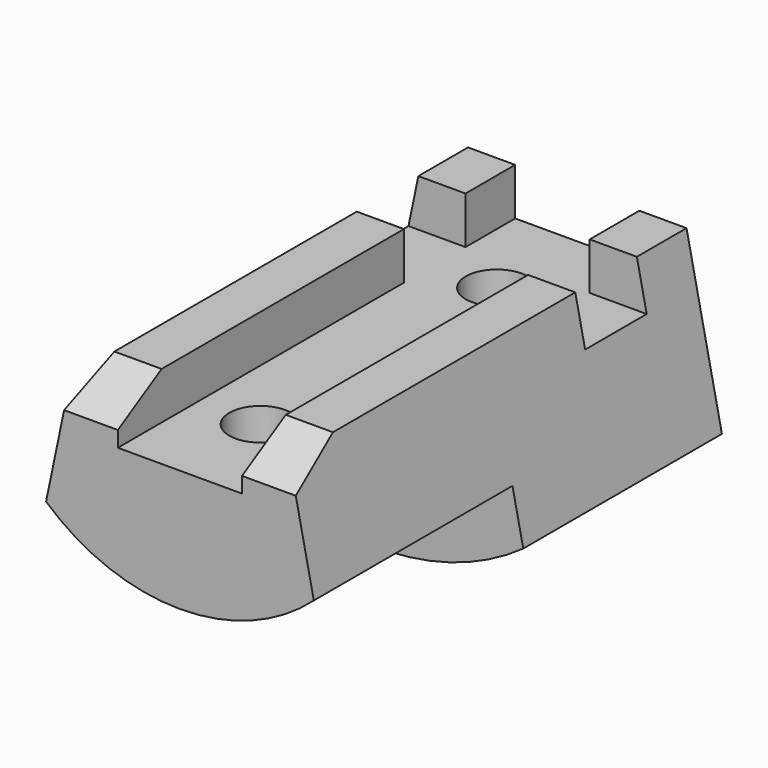
from build123d import *

# Parameters (mm, degrees)
F1_DEPTH      = 4
F2_W          = 0.62
F2_H          = 0.6393354729
F3_DEPTH      = 1.166
F3_DEPTH_BACK = 1.166
F5_R          = 2.5
F5_R_2        = 1.62
F6_DEPTH      = 2.001
F8_D          = 0.5


with BuildPart() as f1:
    # F0 (on Front) → F1 (new body)
    with BuildSketch(Plane.XZ):
        with BuildLine():
            Line((-0.88, -0.2593354729), (-1.165, -1.6256614039))
            ThreePointArc((-1.165, -1.6256614039), (0, -2), (1.165, -1.6256614039))
            Line((1.165, -1.6256614039), (0.88, -0.2593354729))
            Line((0.88, -0.2593354729), (0.5, -0.2593354729))
            Line((0.5, -0.2593354729), (0.5, -0.6393354729))
            Line((0.5, -0.6393354729), (-0.5, -0.6393354729))
            Line((-0.5, -0.6393354729), (-0.5, -0.2593354729))
            Line((-0.5, -0.2593354729), (-0.88, -0.2593354729))
        make_face()
    extrude(amount=F1_DEPTH)

    # F2 (on Right) → F3 (cut, two sides)
    with BuildSketch(Plane.YZ) as f3_sk:
        with Locations((-0.81, -0.3196677365)):
            Rectangle(F2_W, F2_H)
        Polygon((-4, -0.5133695914), (-3.1108177847, 0), (-4, 0), align=None)
    extrude(amount=-F3_DEPTH, mode=Mode.SUBTRACT)
    extrude(f3_sk.sketch, amount=F3_DEPTH_BACK, mode=Mode.SUBTRACT)

    # F5 (on offset) → F6 (cut, through all)
    with BuildSketch(Plane.XZ.offset(2)):
        Circle(F5_R)
        Circle(F5_R_2, mode=Mode.SUBTRACT)
    extrude(amount=F6_DEPTH, mode=Mode.SUBTRACT)

    # F8 (through all)
    with Locations(Plane.XY.offset(-0.6393354729)):
        with Locations((0, -0.81), (0, -3.19)):
            Hole(F8_D / 2)


solid = f1.part
